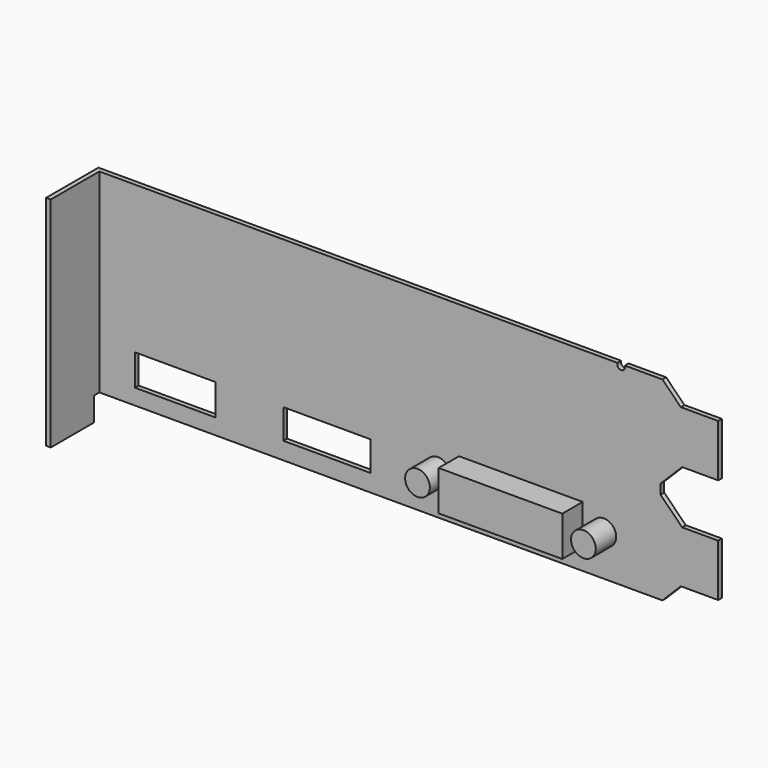
from build123d import *

# Parameters (mm, degrees)
PAD_DEPTH       = 37.75
SKETCH001_R     = 0.75
SKETCH001_W     = 16.9
SKETCH001_H     = 5.75
SKETCH001_W_2   = 15.65
SKETCH001_H_2   = 6.05
POCKET_DEPTH    = 5
SKETCH003_R     = 2.4
SKETCH003_W     = 24
SKETCH003_H     = 7.75
PAD001_DEPTH    = 4.95
POCKET001_DEPTH = 4.9
SKETCH004_W     = 0.9
SKETCH004_H     = 10.5
PAD002_DEPTH    = 4.62


with BuildPart() as part:
    # Sketch → Pad (new body)
    with BuildSketch(Plane.XY):
        Polygon((-31, 20), (90, 20), (90, 19.1), (-30.1, 19.1), (-30.1, 7.3), (-31, 7.3), align=None)
    extrude(amount=PAD_DEPTH)

    # Sketch001 (on Face3 of Pad) → Pocket (cut)
    with BuildSketch(Plane.XZ.offset(-19.1)):
        with Locations((71.17, 37.5)):
            Circle(SKETCH001_R)
        Polygon((90, 34.175), (90, 24.025), (83, 24.025), (78.8, 19.825), (78.8, 17.925), (83, 13.725), (90, 13.725), (90, 3.575), (82.75, 3.575), (79.175, 0), (79.175, -11.454838), (99.765602, -11.454838), (99.765602, 41.466698), (78.897491, 41.466698), (79.175, 37.75), (82.75, 34.175), align=None)
        with Locations((14.05, 6.225)):
            Rectangle(SKETCH001_W, SKETCH001_H)
        with Locations((-15.375, 6.075)):
            Rectangle(SKETCH001_W_2, SKETCH001_H_2)
    extrude(amount=-POCKET_DEPTH, mode=Mode.SUBTRACT)

    # Sketch003 → Pad001 (join)
    with BuildSketch(Plane.XZ.offset(-19.1)):
        with Locations((67.8, 7.925)):
            Circle(SKETCH003_R)
        with Locations((35.6, 7.925)):
            Circle(SKETCH003_R)
        with Locations((51.7, 7.925)):
            Rectangle(SKETCH003_W, SKETCH003_H)
    extrude(amount=PAD001_DEPTH)

    # Sketch001 (on Face3 of Pad) → Pocket001 (cut)
    with BuildSketch(Plane.XZ.offset(-19.1)):
        with Locations((71.17, 37.5)):
            Circle(SKETCH001_R)
        Polygon((90, 34.175), (90, 24.025), (83, 24.025), (78.8, 19.825), (78.8, 17.925), (83, 13.725), (90, 13.725), (90, 3.575), (82.75, 3.575), (79.175, 0), (79.175, -11.454838), (99.765602, -11.454838), (99.765602, 41.466698), (78.897491, 41.466698), (79.175, 37.75), (82.75, 34.175), align=None)
        with Locations((14.05, 6.225)):
            Rectangle(SKETCH001_W, SKETCH001_H)
        with Locations((-15.375, 6.075)):
            Rectangle(SKETCH001_W_2, SKETCH001_H_2)
    extrude(amount=-POCKET001_DEPTH, mode=Mode.SUBTRACT)

    # Sketch004 (on Face2 of Pocket001) → Pad002 (join)
    with BuildSketch(Plane(origin=(0, 0, 0), x_dir=(1, 0, 0), z_dir=(0, 0, -1))):
        with Locations((-30.55, -12.55)):
            Rectangle(SKETCH004_W, SKETCH004_H)
    extrude(amount=PAD002_DEPTH)


solid = part.part
